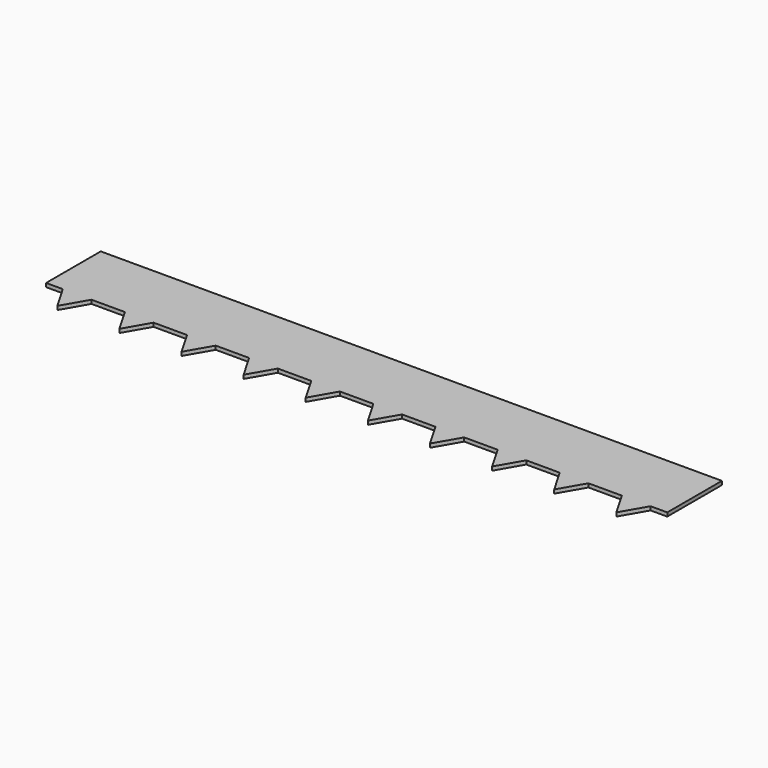
from build123d import *

# Parameters (mm, degrees)
F1_DEPTH = 6


with BuildPart() as f1:
    # F0 (on Top) → F1 (new body)
    with BuildSketch(Plane.XY):
        Polygon((1000, 0), (0, 0), (0, -63.39746), (26.905989, -110), (73.094011, -110), (100, -63.39746), (126.905989, -110), (173.094011, -110), (200, -63.39746), (226.905989, -110), (273.094011, -110), (300, -63.39746), (326.905989, -110), (373.094011, -110), (400, -63.39746), (426.905989, -110), (473.094011, -110), (500, -63.39746), (526.905989, -110), (573.094011, -110), (600, -63.39746), (626.905989, -110), (673.094011, -110), (700, -63.39746), (726.905989, -110), (773.094011, -110), (800, -63.39746), (826.905989, -110), (873.094011, -110), (900, -63.39746), (926.905989, -110), (973.094011, -110), (1000, -63.39746), align=None)
        Polygon((26.905989, -110), (0, -63.39746), (0, -110), align=None)
        Polygon((1000, -110), (1000, -63.39746), (973.094011, -110), align=None)
        Polygon((73.094011, -110), (26.905989, -110), (50, -150), align=None)
        Polygon((950, -150), (973.094011, -110), (926.905989, -110), align=None)
        Polygon((100, -63.39746), (73.094011, -110), (126.905989, -110), align=None)
        Polygon((873.094011, -110), (926.905989, -110), (900, -63.39746), align=None)
        Polygon((173.094011, -110), (126.905989, -110), (150, -150), align=None)
        Polygon((850, -150), (873.094011, -110), (826.905989, -110), align=None)
        Polygon((200, -63.39746), (173.094011, -110), (226.905989, -110), align=None)
        Polygon((773.094011, -110), (826.905989, -110), (800, -63.39746), align=None)
        Polygon((273.094011, -110), (226.905989, -110), (250, -150), align=None)
        Polygon((750, -150), (773.094011, -110), (726.905989, -110), align=None)
        Polygon((300, -63.39746), (273.094011, -110), (326.905989, -110), align=None)
        Polygon((673.094011, -110), (726.905989, -110), (700, -63.39746), align=None)
        Polygon((373.094011, -110), (326.905989, -110), (350, -150), align=None)
        Polygon((650, -150), (673.094011, -110), (626.905989, -110), align=None)
        Polygon((400, -63.39746), (373.094011, -110), (426.905989, -110), align=None)
        Polygon((573.094011, -110), (626.905989, -110), (600, -63.39746), align=None)
        Polygon((473.094011, -110), (426.905989, -110), (450, -150), align=None)
        Polygon((550, -150), (573.094011, -110), (526.905989, -110), align=None)
        Polygon((500, -63.39746), (473.094011, -110), (526.905989, -110), align=None)
    extrude(amount=F1_DEPTH)


solid = f1.part
